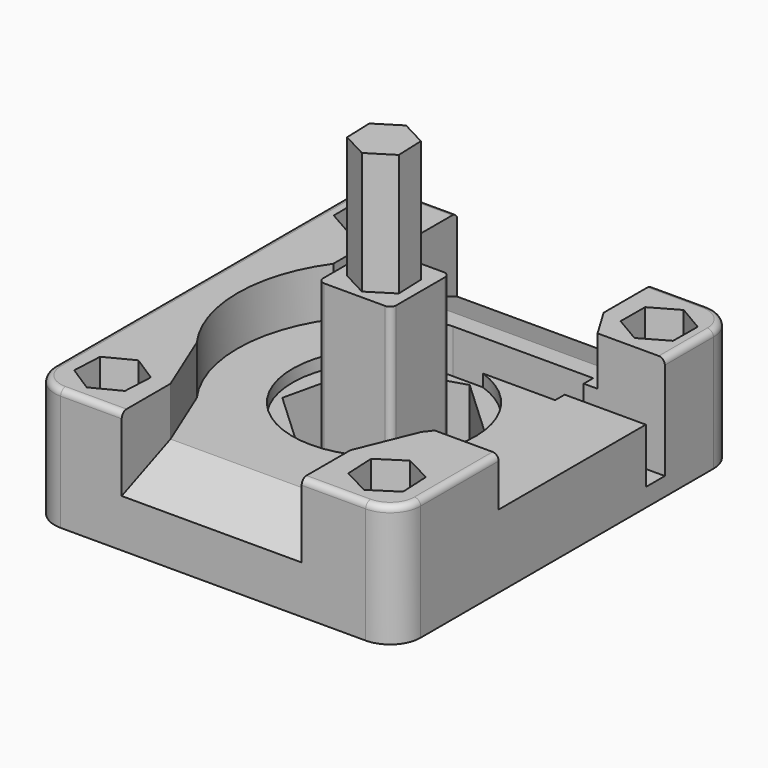
from build123d import *

# Parameters (mm, degrees)
SKETCH_W        = 60
SKETCH_H        = 70
PAD_DEPTH       = 20
SKETCH001_R     = 15
POCKET_DEPTH    = 10
SKETCH003_R     = 24
POCKET002_DEPTH = 8
POCKET003_DEPTH = 8
POCKET004_DEPTH = 17
FILLET_R        = 5
POCKET005_DEPTH = 20
POCKET006_DEPTH = 20
POCKET007_DEPTH = 20
POCKET008_DEPTH = 20
CHAMFER_1_ANGLE = 22.5
CHAMFER_1_SIZE  = 10
CHAMFER_2_ANGLE = 22.5
CHAMFER_2_SIZE  = 10
FILLET003_R     = 1
PAD001_DEPTH    = 50
SKETCH010_W     = 12
SKETCH010_H     = 12
PAD002_DEPTH    = 30
CHAMFER002_SIZE = 1
FILLET002_R     = 1


with BuildPart() as body:
    # Sketch → Pad (new body)
    with BuildSketch(Plane.XY):
        Rectangle(SKETCH_W, SKETCH_H)
    extrude(amount=PAD_DEPTH)

    # Sketch001 (on DatumPlane) → Pocket (cut)
    with BuildSketch(Plane.XY.offset(20)):
        Circle(SKETCH001_R)
    extrude(amount=-POCKET_DEPTH, mode=Mode.SUBTRACT)

    # Sketch003 (on DatumPlane) → Pocket002 (cut)
    with BuildSketch(Plane.XY.offset(20)):
        Circle(SKETCH003_R)
    extrude(amount=-POCKET002_DEPTH, mode=Mode.SUBTRACT)

    # Sketch007 (on DatumPlane) → Pocket003 (cut)
    with BuildSketch(Plane.XY.offset(20)):
        Polygon((19, 20), (16, 25), (16, 35.409691), (-16, 35.409691), (-16, 25), (-19.5, 20), (-19.5, -14), (-15, -25), (-15, -35.028248), (14.5, -35.028248), (14.5, -25), (19, -14), (30.000004, -14), (30.000004, 20), align=None)
    extrude(amount=-POCKET003_DEPTH, mode=Mode.SUBTRACT)

    # Sketch005 (on DatumPlane) → Pocket004 (cut)
    with BuildSketch(Plane.XY.offset(20)):
        with BuildLine():
            Line((16.7, 22), (-6.3, 22))
            ThreePointArc((-6.3, 22), (-10.2, 18.1), (-6.3, 14.2))
            Line((-6.3, 14.2), (16.7, 14.2))
            Line((16.7, 16.15), (16.7, 14.2))
            Line((30, 16.15), (16.7, 16.15))
            Line((30, 20.05), (30, 16.15))
            Line((16.7, 20.05), (30, 20.05))
            Line((16.7, 22), (16.7, 20.05))
        make_face()
    extrude(amount=-POCKET004_DEPTH, mode=Mode.SUBTRACT)

    # Fillet
    fillet_edges = [body.edges().sort_by_distance(p)[0] for p in [
        (-30, 35, 10),
        (30, 35, 10),
        (-30, -35, 10),
        (30, -35, 10),
    ]]
    fillet(fillet_edges, radius=FILLET_R)

    # Sketch012 (on DatumPlane) → Pocket005 (cut)
    with BuildSketch(Plane.XY.offset(20)):
        Polygon((-18.295802, -30.206422), (-18.054071, -25.212269), (-22.258268, -22.505847), (-26.704198, -24.793578), (-26.945929, -29.787731), (-22.741732, -32.494153), align=None)
    extrude(amount=-POCKET005_DEPTH, mode=Mode.SUBTRACT)

    # Sketch009 (on DatumPlane) → Pocket006 (cut)
    with BuildSketch(Plane.XY.offset(20)):
        Polygon((10.248433, -9.5378), (13.384193, 4.106503), (3.135761, 13.644303), (-10.248433, 9.5378), (-13.384193, -4.106503), (-3.135761, -13.644303), align=None)
    extrude(amount=-POCKET006_DEPTH, mode=Mode.SUBTRACT)

    # Sketch012 (on DatumPlane) → Pocket007 (cut)
    with BuildSketch(Plane.XY.offset(20)):
        Polygon((-18.295802, -30.206422), (-18.054071, -25.212269), (-22.258268, -22.505847), (-26.704198, -24.793578), (-26.945929, -29.787731), (-22.741732, -32.494153), align=None)
    pocket007 = extrude(amount=-POCKET007_DEPTH, mode=Mode.SUBTRACT)

    # Sketch008 (on DatumPlane) → Pocket008 (cut)
    with BuildSketch(Plane.XY.offset(20)):
        Polygon((-19.186076, 29.527857), (-23.532227, 31.999896), (-27.846151, 29.472039), (-27.813924, 24.472143), (-23.467773, 22.000104), (-19.153849, 24.527961), align=None)
    pocket008 = extrude(amount=-POCKET008_DEPTH, mode=Mode.SUBTRACT)

    # Mirrored: Pocket008 across Sketch008 V_Axis
    add(pocket008.mirror(Plane(origin=(0, 0, 20), x_dir=(0, 0, 1), z_dir=(1, 0, 0))), mode=Mode.SUBTRACT)

    # Mirrored001: Pocket007 across Sketch012 V_Axis
    add(pocket007.mirror(Plane(origin=(0, 0, 20), x_dir=(0, 0, 1), z_dir=(1, 0, 0))), mode=Mode.SUBTRACT)

    # Chamfer 1
    chamfer_1_edges = [body.edges().sort_by_distance(p)[0] for p in [
        (-0.25, -35, 12),
    ]]
    chamfer_1_side = body.faces().sort_by_distance((-0.405265, -28.061793, 12))[0]
    chamfer(chamfer_1_edges, length=CHAMFER_1_SIZE, angle=CHAMFER_1_ANGLE, reference=chamfer_1_side)

    # Chamfer 2
    chamfer_2_edges = [body.edges().sort_by_distance(p)[0] for p in [
        (0, 35, 12),
    ]]
    chamfer_2_side = body.faces().sort_by_distance((-1.063784, 28.061193, 12))[0]
    chamfer(chamfer_2_edges, length=CHAMFER_2_SIZE, angle=CHAMFER_2_ANGLE, reference=chamfer_2_side)

    # Fillet003
    fillet003_edges = [body.edges().sort_by_distance(p)[0] for p in [
        (-20, -35, 20),
        (-28.535534, -33.535534, 20),
        (-30, 0, 20),
        (-28.535534, 33.535534, 20),
        (-20.5, 35, 20),
        (20.5, 35, 20),
        (28.535534, 33.535534, 20),
        (30, 25.025, 20),
        (30, -22, 20),
        (28.535534, -33.535534, 20),
        (19.75, -35, 20),
    ]]
    fillet(fillet003_edges, radius=FILLET003_R)


with BuildPart() as body001:
    # Sketch011 → Pad001 (new body)
    with BuildSketch(Plane.XY):
        Polygon((4.199412, -2.219784), (4.022095, 2.526905), (-0.177317, 4.746689), (-4.199412, 2.219784), (-4.022095, -2.526905), (0.177317, -4.746689), align=None)
    extrude(amount=PAD001_DEPTH)

    # Sketch010 → Pad002 (join)
    with BuildSketch(Plane.XY):
        Rectangle(SKETCH010_W, SKETCH010_H)
    extrude(amount=PAD002_DEPTH)

    # Chamfer002
    chamfer002_edges = [body001.edges().sort_by_distance(p)[0] for p in [
        (0, -6, 0),
        (6, 0, 0),
        (0, 6, 0),
        (-6, 0, 0),
    ]]
    chamfer(chamfer002_edges, length=CHAMFER002_SIZE)

    # Fillet002
    fillet002_edges = [body001.edges().sort_by_distance(p)[0] for p in [
        (6, -6, 15.5),
        (-6, -6, 15.5),
        (6, 6, 15.5),
        (-6, 6, 15.5),
    ]]
    fillet(fillet002_edges, radius=FILLET002_R)


solid = Compound([body.part, body001.part])
